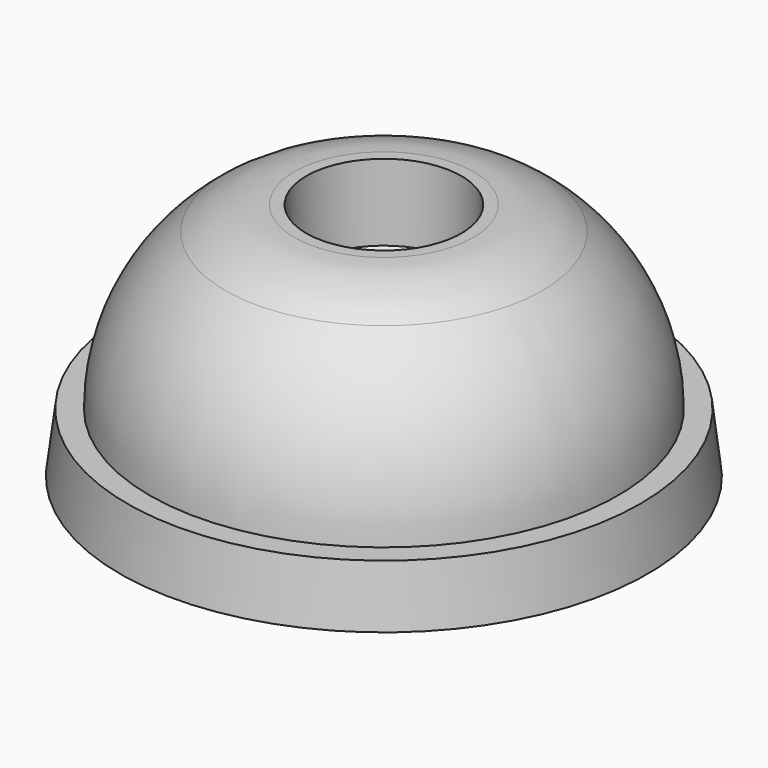
from build123d import *

# Parameters (mm, degrees)
F2_R = 4


with BuildPart() as f1:
    # F0 (on Front) → F1 (revolve)
    with BuildSketch(Plane.XZ):
        with BuildLine():
            Line((-9.425, 0), (-1.5, 0))
            Line((-1.5, 0), (-1.5, 4.54))
            Line((-1.5, 4.54), (-2.77, 5.81))
            Line((-2.77, 5.81), (-2.77, 8.54))
            Line((-2.77, 8.54), (-4.27, 8.54))
            ThreePointArc((-4.27, 8.54), (-7.253886, 5.927327), (-8.364697, 2.12))
            Line((-8.364697, 2.12), (-9.164697, 2.12))
            Line((-9.164697, 2.12), (-9.425, 0))
        make_face()
    revolve(axis=Axis((0, 0, 4.049394), (0, 0, 1)))

    # F2
    f2_edges = [f1.edges().sort_by_distance(p)[0] for p in [
        (4.27, 0, 8.54),
    ]]
    fillet(f2_edges, radius=F2_R)


solid = f1.part
